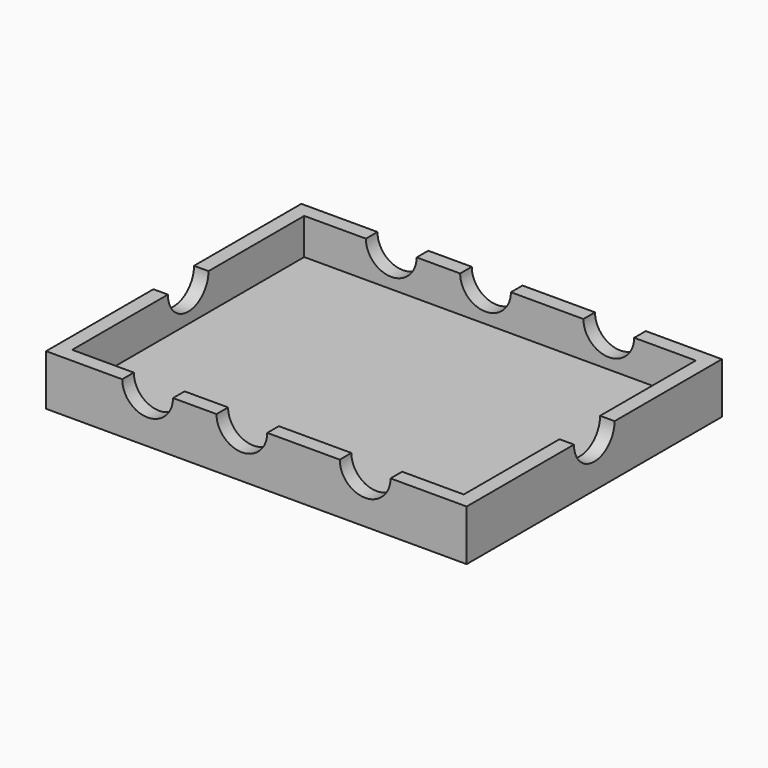
from build123d import *

# Parameters (mm, degrees)
F0_W     = 58
F0_H     = 44
F1_DEPTH = 7
F2_W     = 54
F2_H     = 40
F3_DEPTH = 5
F4_R     = 3.5
F5_DEPTH = 50
F6_R     = 3.5
F7_DEPTH = 60


with BuildPart() as f1:
    # F0 (on Top) → F1 (new body)
    with BuildSketch(Plane.XY):
        Rectangle(F0_W, F0_H)
    extrude(amount=F1_DEPTH)

    # F2 (on face) → F3 (cut)
    with BuildSketch(Plane.XY.offset(7)):
        Rectangle(F2_W, F2_H)
    extrude(amount=-F3_DEPTH, mode=Mode.SUBTRACT)

    # F4 (on face) → F5 (cut)
    with BuildSketch(Plane.XZ.offset(22)):
        with Locations((-15, 7)):
            Circle(F4_R)
        with Locations((-2, 7)):
            Circle(F4_R)
        with Locations((15, 7)):
            Circle(F4_R)
    extrude(amount=-F5_DEPTH, mode=Mode.SUBTRACT)

    # F6 (on face) → F7 (cut)
    with BuildSketch(Plane(origin=(-29, 0, 0), x_dir=(0, -1, 0), z_dir=(-1, 0, 0))):
        with Locations((0, 7)):
            Circle(F6_R)
    extrude(amount=-F7_DEPTH, mode=Mode.SUBTRACT)


solid = f1.part
